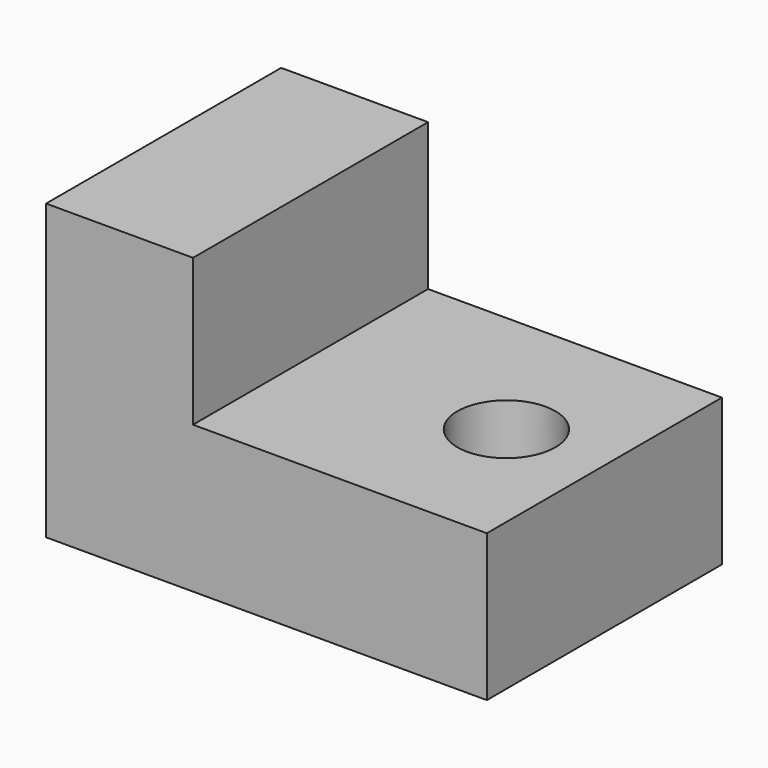
from build123d import *

# Parameters (mm, degrees)
F0_W     = 90
F0_H     = 60
F1_DEPTH = 60
F3_W     = 60
F3_H     = 30
F4_DEPTH = 60
F5_R     = 10
F6_DEPTH = 57.47117


with BuildPart() as f1:
    # F0 (on Front) → F1 (new body)
    with BuildSketch(Plane.XZ):
        with Locations((-6.022729, -3.085602)):
            Rectangle(F0_W, F0_H)
    extrude(amount=F1_DEPTH)

    # F3 (on face) → F4 (cut)
    with BuildSketch(Plane.XZ.offset(60)):
        with Locations((8.977271, 11.914398)):
            Rectangle(F3_W, F3_H)
    extrude(amount=-F4_DEPTH, mode=Mode.SUBTRACT)

    # F5 (on face) → F6 (cut)
    with BuildSketch(Plane.XY.offset(-3.085602)):
        with Locations((18.977271, -30)):
            Circle(F5_R)
    extrude(amount=-F6_DEPTH, mode=Mode.SUBTRACT)


solid = f1.part
